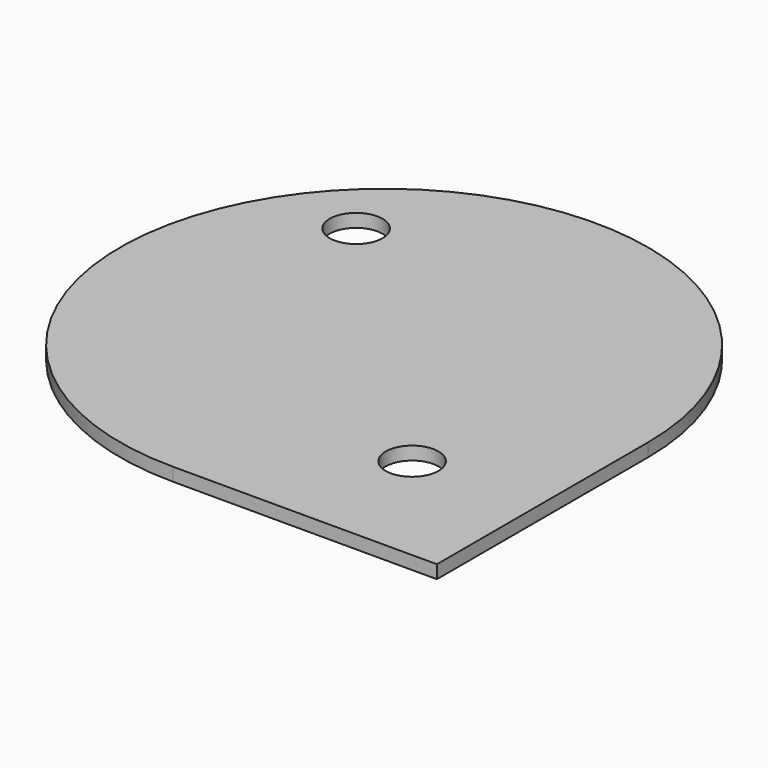
from build123d import *

# Parameters (mm, degrees)
F1_DEPTH = 25
F2_R     = 50
F3_DEPTH = 25


with BuildPart() as f1:
    # F0 (on Top) → F1 (new body)
    with BuildSketch(Plane.XY):
        with BuildLine():
            Line((500, -500), (500, 0))
            ThreePointArc((500, 0), (-353.553391, 353.553391), (0, -500))
            Line((0, -500), (500, -500))
        make_face()
        with BuildLine():
            Line((500, -500), (500, 0))
            ThreePointArc((500, 0), (-353.553391, 353.553391), (0, -500))
            Line((0, -500), (500, -500))
        make_face()
    extrude(amount=F1_DEPTH)

    # F2 (on face) → F3 (cut, through all)
    with BuildSketch(Plane.XY.offset(25)):
        with BuildLine():
            ThreePointArc((-229.809704, 229.809704), (-218.971066, 246.030871), (-215.165043, 265.165043))
            ThreePointArc((-215.165043, 265.165043), (-311.35902, 284.299215), (-229.809704, 229.809704))
        make_face()
        with Locations((265.165043, -265.165043)):
            Circle(F2_R)
    extrude(amount=-F3_DEPTH, mode=Mode.SUBTRACT)


solid = f1.part
